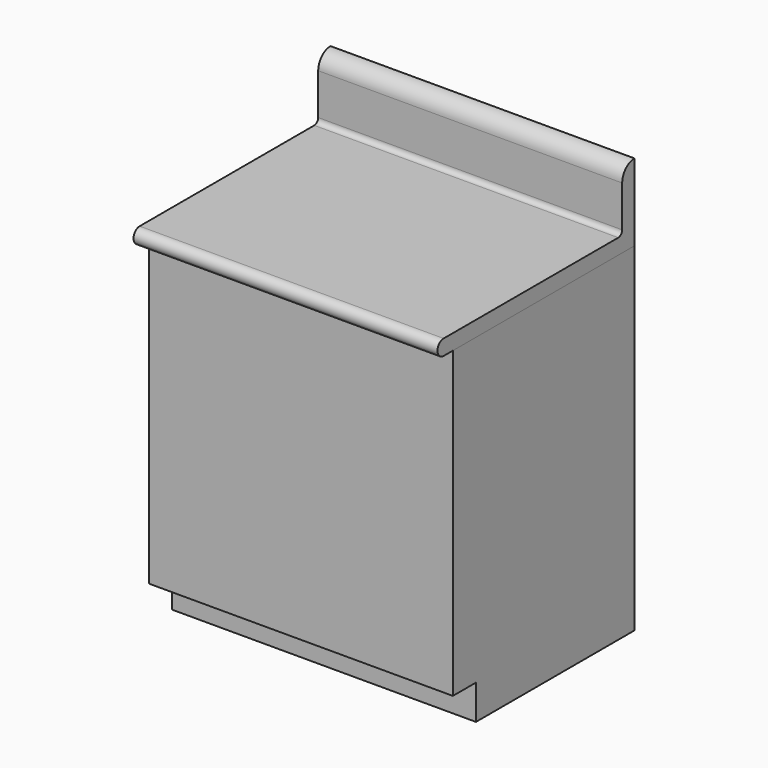
from build123d import *

# Parameters (mm, degrees)
F0_W     = 790
F0_H     = 590
F1_DEPTH = 880
F2_W     = 75
F2_H     = 90
F3_DEPTH = 790.001
F5_DEPTH = 790


with BuildPart() as f1:
    # F0 (on Top) → F1 (new body)
    with BuildSketch(Plane.XY):
        with Locations((395, 295)):
            Rectangle(F0_W, F0_H)
    extrude(amount=F1_DEPTH)

    # F2 (on Right) → F3 (cut, through all)
    with BuildSketch(Plane.YZ):
        with Locations((37.5, 45)):
            Rectangle(F2_W, F2_H)
    extrude(amount=F3_DEPTH, mode=Mode.SUBTRACT)


with BuildPart() as f5:
    # F4 (on Right) → F5 (new body, through all)
    with BuildSketch(Plane.YZ):
        with BuildLine():
            Line((-30, 880), (590, 880))
            Line((590, 880), (590, 1080))
            ThreePointArc((590, 1080), (561.715729, 1068.284271), (550, 1040))
            Line((550, 1040), (550, 932.7))
            ThreePointArc((550, 932.7), (546.280256, 923.719744), (537.3, 920))
            Line((537.3, 920), (-30, 920))
            ThreePointArc((-30, 920), (-50, 900), (-30, 880))
        make_face()
    extrude(amount=F5_DEPTH)


solid = Compound([f1.part, f5.part])
